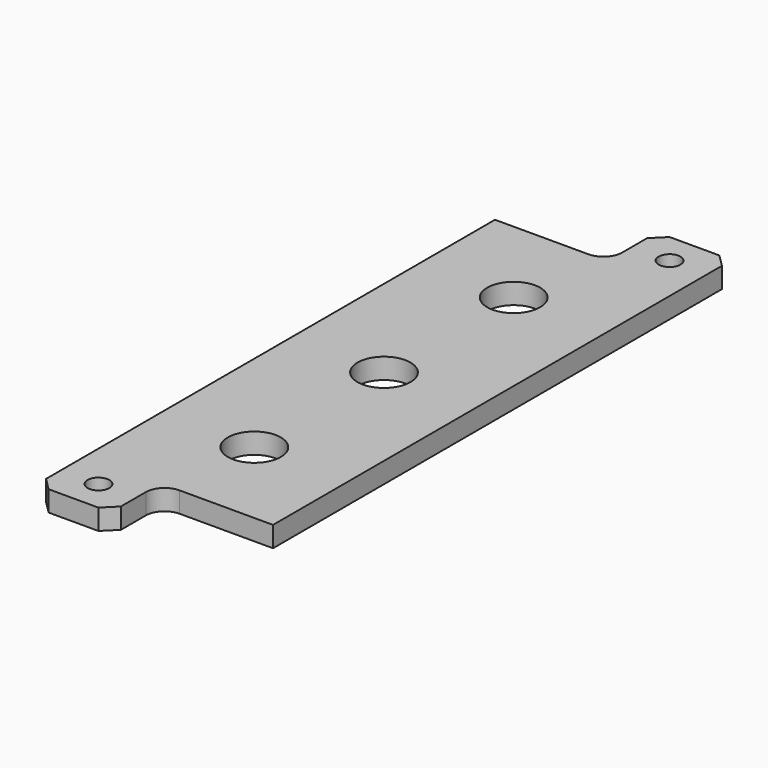
from build123d import *

# Parameters (mm, degrees)
F0_W      = 12
F0_H      = 10
F1_DEPTH  = 3.3
F2_SIZE   = 2
F3_R      = 3
F4_R      = 3
F5_R      = 1.75
F6_DEPTH  = 25
F7_R      = 2.5
F8_DEPTH  = 25
F9_R      = 4.25
F10_DEPTH = 25


with BuildPart() as f1:
    # F0 (on Top) → F1 (new body)
    with BuildSketch(Plane.XY):
        Polygon((15, -41), (15, 41), (3, 41), (-15, 41), (-15, -41), (-3, -41), align=None)
        with Locations((9, 46)):
            Rectangle(F0_W, F0_H)
        with Locations((-9, -46)):
            Rectangle(F0_W, F0_H)
    extrude(amount=F1_DEPTH)

    # F2
    f2_edges = [f1.edges().sort_by_distance(p)[0] for p in [
        (15, 51, 1.65),
        (3, 51, 1.65),
        (-15, -51, 1.65),
        (-3, -51, 1.65),
    ]]
    chamfer(f2_edges, length=F2_SIZE)

    # F3
    f3_edges = [f1.edges().sort_by_distance(p)[0] for p in [
        (3, 41, 1.65),
    ]]
    fillet(f3_edges, radius=F3_R)

    # F4
    f4_edges = [f1.edges().sort_by_distance(p)[0] for p in [
        (-3, -41, 1.65),
    ]]
    fillet(f4_edges, radius=F4_R)

    # F5 (on face) → F6 (cut)
    with BuildSketch(Plane.XY.offset(3.3)):
        with Locations((9, 46)):
            Circle(F5_R)
        with Locations((-9, -46)):
            Circle(F5_R)
    extrude(amount=-F6_DEPTH, mode=Mode.SUBTRACT)

    # F7 (on face) → F8 (cut)
    with BuildSketch(Plane.XY.offset(3.3)):
        with Locations((0, 26)):
            Circle(F7_R)
        with Locations((0, -26)):
            Circle(F7_R)
    extrude(amount=-F8_DEPTH, mode=Mode.SUBTRACT)

    # F9 (on face) → F10 (cut)
    with BuildSketch(Plane.XY.offset(3.3)):
        with Locations((0, 26)):
            Circle(F9_R)
        with Locations((0, -26)):
            Circle(F9_R)
        Circle(F9_R)
    extrude(amount=-F10_DEPTH, mode=Mode.SUBTRACT)


solid = f1.part
